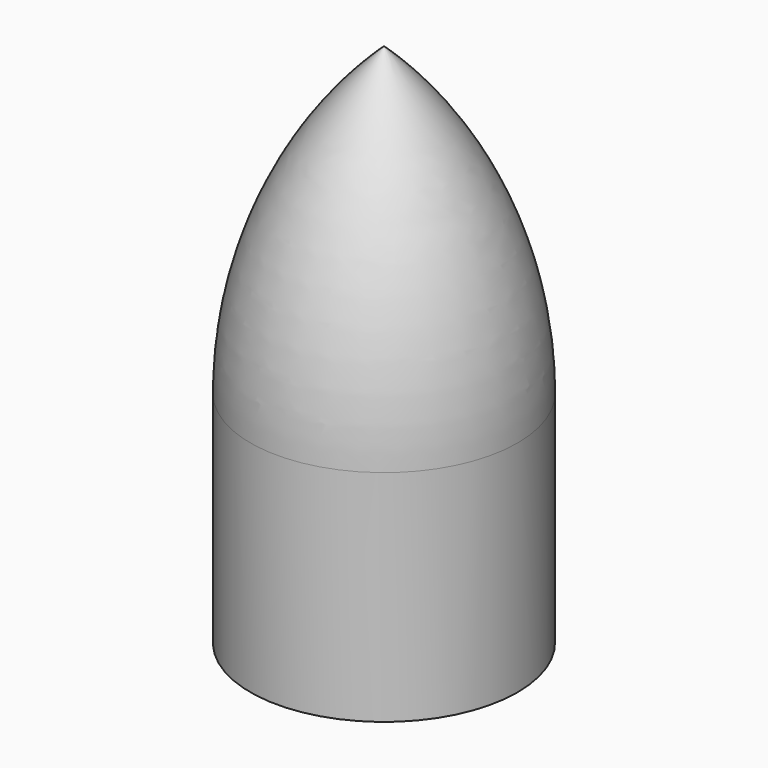
from build123d import *


with BuildPart() as f1:
    # F0 (on Front) → F1 (revolve)
    with BuildSketch(Plane.XZ):
        with BuildLine():
            Line((-14, 0), (-13, 0))
            Line((-13, 0), (-13, 23))
            ThreePointArc((-13, 23), (-9.614717, 39.592613), (0, 53.53292))
            Line((0, 53.53292), (0, 55.064458))
            ThreePointArc((0, 55.064458), (-10.347419, 40.493781), (-14, 23))
            Line((-14, 23), (-14, 0))
        make_face()
    revolve(axis=Axis((0, 0, 32.94684), (0, 0, 1)))


solid = f1.part
